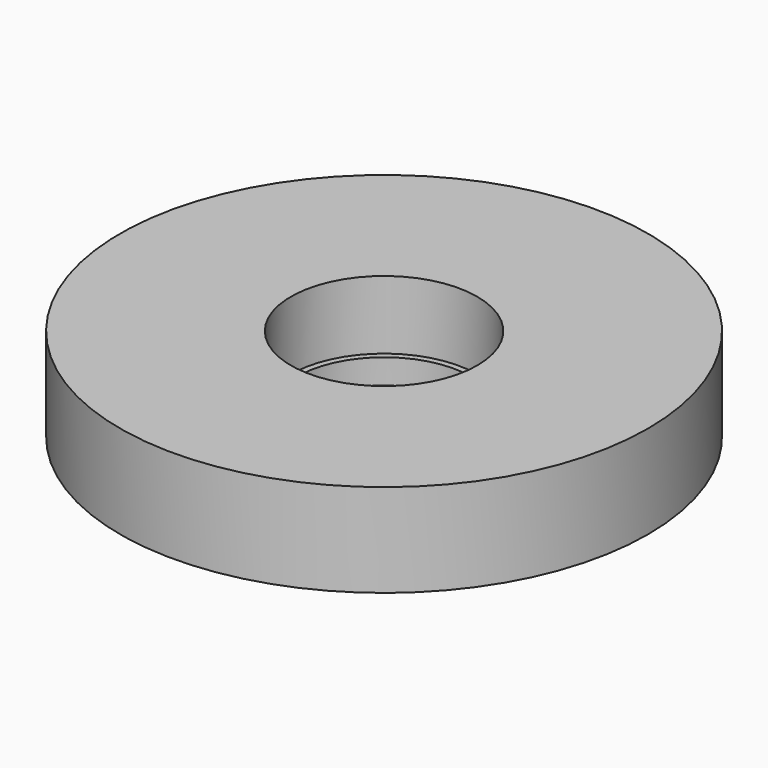
from build123d import *

# Parameters (mm, degrees)
SKETCH001_R   = 42.5
SKETCH001_R_2 = 15
PAD_DEPTH     = 15
SKETCH_R      = 15
SKETCH_R_2    = 14
PAD001_DEPTH  = 4


with BuildPart() as part:
    # Sketch001 → Pad (new body)
    with BuildSketch(Plane.XY):
        Circle(SKETCH001_R)
        Circle(SKETCH001_R_2, mode=Mode.SUBTRACT)
    extrude(amount=PAD_DEPTH)

    # Sketch (on Sketch) → Pad001 (join)
    with BuildSketch(Plane.XY):
        Circle(SKETCH_R)
        Circle(SKETCH_R_2, mode=Mode.SUBTRACT)
    extrude(amount=PAD001_DEPTH)


solid = part.part
